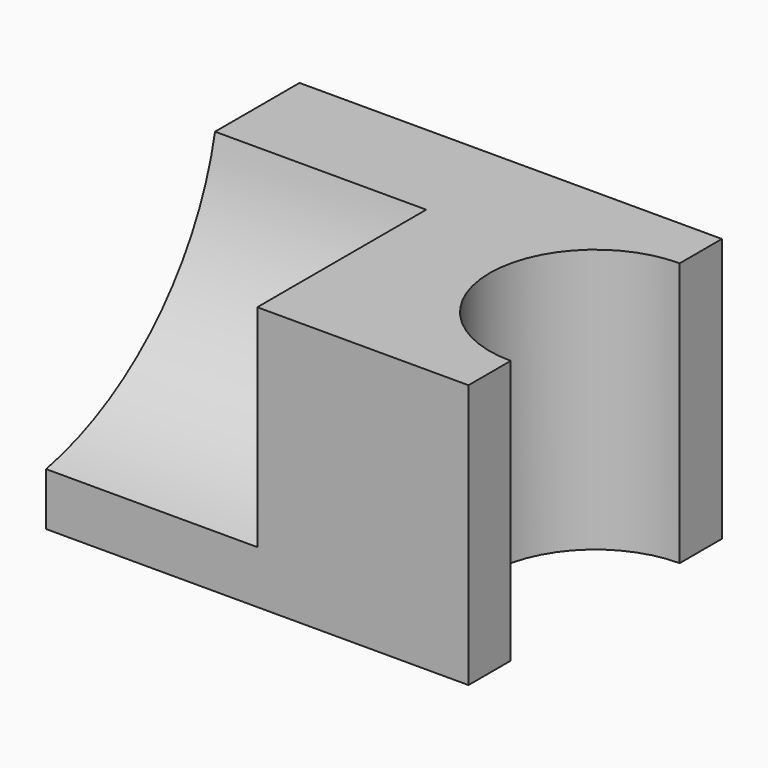
from build123d import *

# Parameters (mm, degrees)
F1_DEPTH = 127
F3_DEPTH = 101.6


with BuildPart() as f1:
    # F0 (on Top) → F1 (new body)
    with BuildSketch(Plane.XY):
        with BuildLine():
            Line((96.324614, 76.2), (-106.875386, 76.2))
            Line((-106.875386, 76.2), (-106.875386, -76.2))
            Line((-106.875386, -76.2), (96.324614, -76.2))
            Line((96.324614, -76.2), (96.324614, -50.8))
            ThreePointArc((96.324614, -50.8), (45.524614, 0), (96.324614, 50.8))
            Line((96.324614, 50.8), (96.324614, 76.2))
        make_face()
    extrude(amount=F1_DEPTH)

    # F2 (on face) → F3 (cut)
    with BuildSketch(Plane(origin=(-106.875386, 0, 0), x_dir=(0, -1, 0), z_dir=(-1, 0, 0))):
        with BuildLine():
            Line((76.2, 127), (-25.4, 127))
            ThreePointArc((-25.4, 127), (10.129609, 60.929609), (76.2, 25.4))
            Line((76.2, 25.4), (76.2, 127))
        make_face()
    extrude(amount=-F3_DEPTH, mode=Mode.SUBTRACT)


solid = f1.part
